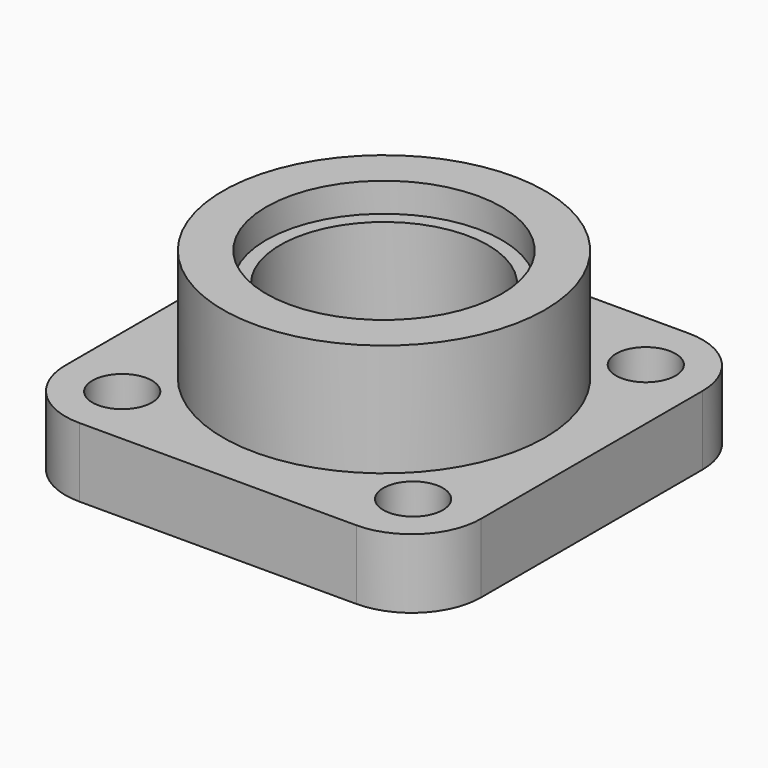
from build123d import *

# Parameters (mm, degrees)
F0_R     = 5.461
F1_DEPTH = 12.7
F2_R     = 29.5275
F2_R_2   = 19.05
F3_DEPTH = 20.6248
F4_R     = 21.59
F5_DEPTH = 5.334
F6_R     = 19.05
F7_DEPTH = 25.4


with BuildPart() as f1:
    # F0 (on Top) → F1 (new body)
    with BuildSketch(Plane.XY):
        with BuildLine():
            ThreePointArc((0, 12.7), (3.719744, 3.719744), (12.7, 0))
            Line((12.7, 0), (63.5, 0))
            ThreePointArc((63.5, 0), (72.480256, 3.719744), (76.2, 12.7))
            Line((76.2, 12.7), (76.2, 63.5))
            ThreePointArc((76.2, 63.5), (72.480256, 72.480256), (63.5, 76.2))
            Line((63.5, 76.2), (12.7, 76.2))
            ThreePointArc((12.7, 76.2), (3.719744, 72.480256), (0, 63.5))
            Line((0, 63.5), (0, 12.7))
        make_face()
        with Locations((11.43, 11.43)):
            Circle(F0_R, mode=Mode.SUBTRACT)
        with Locations((64.77, 11.43)):
            Circle(F0_R, mode=Mode.SUBTRACT)
        with Locations((11.43, 64.77)):
            Circle(F0_R, mode=Mode.SUBTRACT)
        with Locations((64.77, 64.77)):
            Circle(F0_R, mode=Mode.SUBTRACT)
    extrude(amount=F1_DEPTH)

    # F2 (on face) → F3 (join)
    with BuildSketch(Plane.XY.offset(12.7)):
        with Locations((38.1, 38.1)):
            Circle(F2_R)
        with Locations((38.1, 38.1)):
            Circle(F2_R_2, mode=Mode.SUBTRACT)
    extrude(amount=F3_DEPTH)

    # F4 (on face) → F5 (cut)
    with BuildSketch(Plane.XY.offset(33.3248)):
        with Locations((38.1, 38.1)):
            Circle(F4_R)
    extrude(amount=-F5_DEPTH, mode=Mode.SUBTRACT)

    # F6 (on face) → F7 (cut)
    with BuildSketch(Plane.XY.offset(12.7)):
        with Locations((38.1, 38.1)):
            Circle(F6_R)
    extrude(amount=-F7_DEPTH, mode=Mode.SUBTRACT)


solid = f1.part
